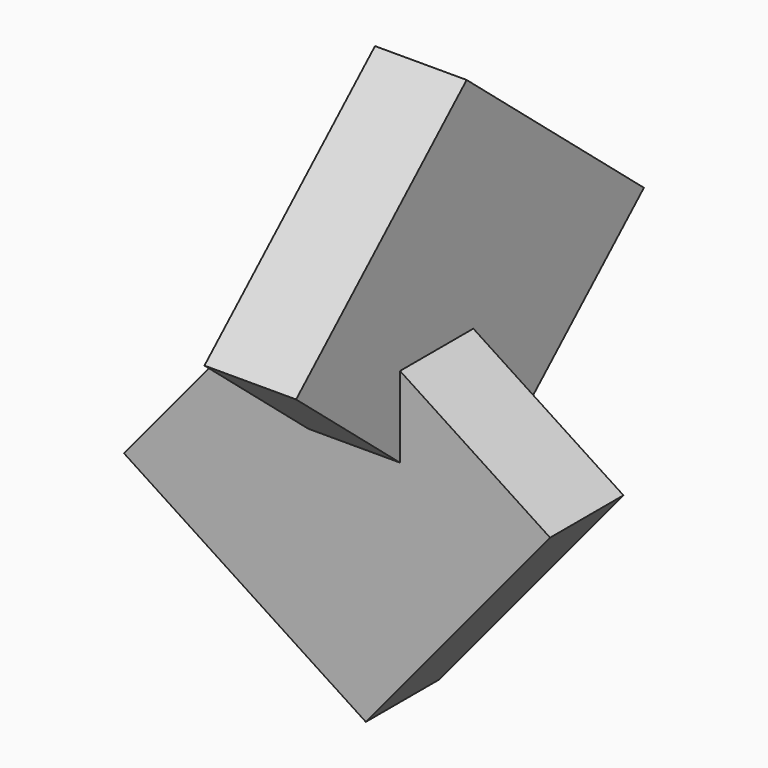
from build123d import *

# Parameters (mm, degrees)
F1_DEPTH = 25.4
F3_DEPTH = 25.4


with BuildPart() as f1:
    # F0 (on Front) → F1 (new body)
    with BuildSketch(Plane.XZ):
        Polygon((66.986813, 46.780046), (0, 90.515236), (-51.076022, 28.94219), (15.910791, -14.793), align=None)
    extrude(amount=F1_DEPTH)

    # F2 (on Right) → F3 (join)
    with BuildSketch(Plane.YZ):
        Polygon((-2.333457, 135.552736), (-61.412295, 81.611186), (0, 30.341994), (59.078839, 84.283544), align=None)
    extrude(amount=F3_DEPTH)


solid = f1.part
